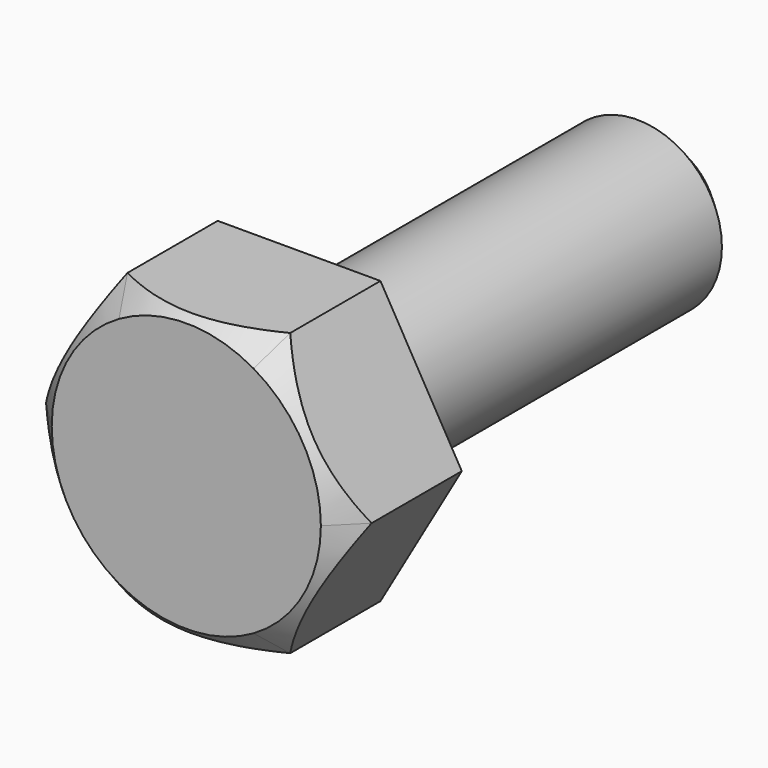
from build123d import *

# Parameters (mm, degrees)
F0_R     = 1.5
F1_DEPTH = 2.5
F2_SIZE  = 0.5
F3_DEPTH = 25
F4_DEPTH = 8
F5_SIZE  = 0.5


with BuildPart() as f1:
    # F0 (on Front) → F1 (new body)
    with BuildSketch(Plane.XZ):
        Polygon((1.443375673, 2.5), (-1.443375673, 2.5), (-2.8867513459, 0), (-1.443375673, -2.5), (1.443375673, -2.5), (2.8867513459, 0), align=None)
        Circle(F0_R, mode=Mode.SUBTRACT)
        Circle(F0_R)
        with BuildLine():
            ThreePointArc((2.8867513459, 0), (2.5, 1.443375673), (1.443375673, 2.5))
            Line((1.443375673, 2.5), (2.8867513459, 0))
        make_face()
        with BuildLine():
            ThreePointArc((1.443375673, 2.5), (0, 2.8867513459), (-1.443375673, 2.5))
            Line((-1.443375673, 2.5), (1.443375673, 2.5))
        make_face()
        with BuildLine():
            Line((1.443375673, -2.5), (-1.443375673, -2.5))
            ThreePointArc((-1.443375673, -2.5), (0, -2.8867513459), (1.443375673, -2.5))
        make_face()
        with BuildLine():
            ThreePointArc((1.443375673, -2.5), (2.5, -1.443375673), (2.8867513459, 0))
            Line((2.8867513459, 0), (1.443375673, -2.5))
        make_face()
        with BuildLine():
            Line((-1.443375673, -2.5), (-2.8867513459, 0))
            ThreePointArc((-2.8867513459, 0), (-2.5, -1.443375673), (-1.443375673, -2.5))
        make_face()
        with BuildLine():
            Line((-2.8867513459, 0), (-1.443375673, 2.5))
            ThreePointArc((-1.443375673, 2.5), (-2.5, 1.443375673), (-2.8867513459, 0))
        make_face()
    extrude(amount=F1_DEPTH)

    # F2
    f2_edges = [f1.edges().sort_by_distance(p)[0] for p in [
        (1.443376, -2.5, -2.5),
    ]]
    chamfer(f2_edges, length=F2_SIZE)

    # F0 (on Front) → F3 (intersect)
    with BuildSketch(Plane.XZ):
        Polygon((1.443375673, 2.5), (-1.443375673, 2.5), (-2.8867513459, 0), (-1.443375673, -2.5), (1.443375673, -2.5), (2.8867513459, 0), align=None)
        Circle(F0_R, mode=Mode.SUBTRACT)
        Circle(F0_R)
    extrude(amount=F3_DEPTH, mode=Mode.INTERSECT)

    # F0 (on Front) → F4 (join)
    with BuildSketch(Plane.XZ):
        Circle(F0_R)
    extrude(amount=-F4_DEPTH)

    # F5
    f5_edges = [f1.edges().sort_by_distance(p)[0] for p in [
        (-1.5, 8, 0),
    ]]
    chamfer(f5_edges, length=F5_SIZE)


solid = f1.part
